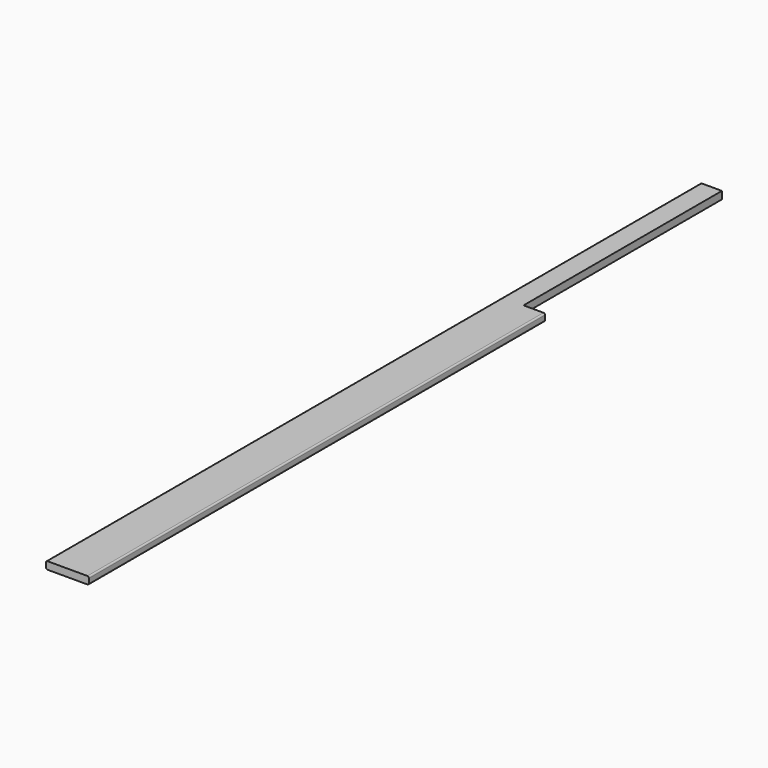
from build123d import *

# Parameters (mm, degrees)
F1_DEPTH = 1298.956
F2_W     = 113.868274
F2_H     = 929.21856
F3_DEPTH = 23.877


with BuildPart() as f1:
    # F0 (on Front) → F1 (new body, symmetric)
    with BuildSketch(Plane.XZ):
        with BuildLine():
            Line((63.246, 11.938), (-63.246, 11.938))
            ThreePointArc((-63.246, 11.938), (-66.658497, 10.524497), (-68.072, 7.112))
            Line((-68.072, 7.112), (-68.072, -7.112))
            ThreePointArc((-68.072, -7.112), (-66.658497, -10.524497), (-63.246, -11.938))
            Line((-63.246, -11.938), (63.246, -11.938))
            ThreePointArc((63.246, -11.938), (66.658497, -10.524497), (68.072, -7.112))
            Line((68.072, -7.112), (68.072, 7.112))
            ThreePointArc((68.072, 7.112), (66.658497, 10.524497), (63.246, 11.938))
        make_face()
    extrude(amount=F1_DEPTH, both=True)

    # F2 (on face) → F3 (cut, through all)
    with BuildSketch(Plane.XY.offset(11.938)):
        with Locations((56.934137, 976.16528)):
            Rectangle(F2_W, F2_H)
    extrude(amount=-F3_DEPTH, mode=Mode.SUBTRACT)


solid = f1.part
